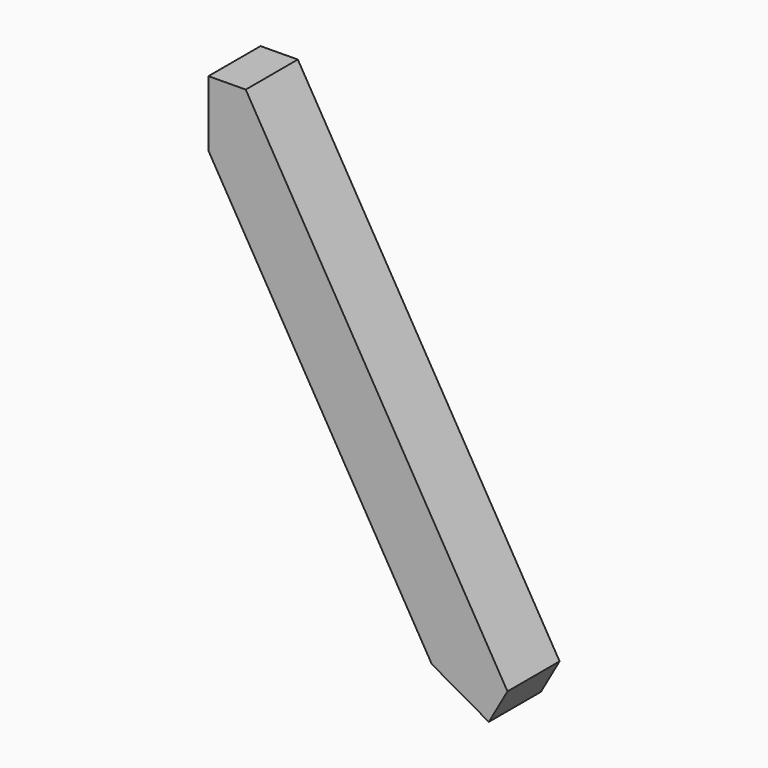
from build123d import *

# Parameters (mm, degrees)
F1_DEPTH = 6.6


with BuildPart() as f1:
    # F0 (on Front) → F1 (new body)
    with BuildSketch(Plane.XZ):
        Polygon((-20.828086, 43.877387), (-24.60951, 37.198508), (-1.976367, -1.251827), (5.698425, -1.187197), align=None)
        Polygon((-24.60951, 43.845072), (-24.60951, 37.198508), (-20.828086, 43.877387), align=None)
        Polygon((5.698425, -1.187197), (-1.976367, -1.251827), (3.807712, -4.526636), align=None)
    extrude(amount=F1_DEPTH)


solid = f1.part
